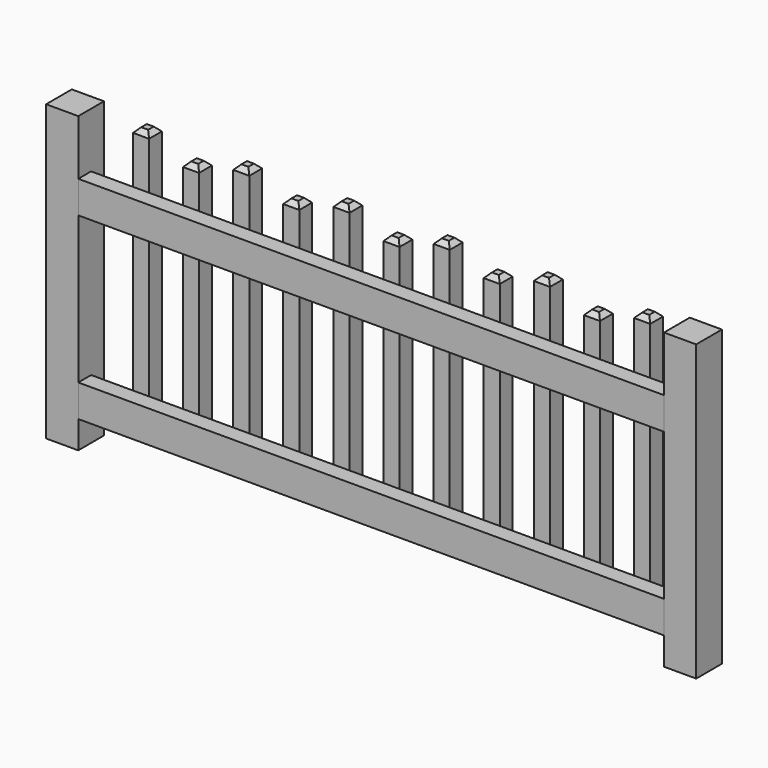
from build123d import *

# Parameters (mm, degrees)
F0_W        = 88.9
F0_H        = 88.9
F1_DEPTH    = 812.8
F4_W        = 1617.98
F4_H        = 88.9
F5_DEPTH    = 44.45
F8_W        = 44.45
F8_H        = 749.3
F9_DEPTH    = 44.45
F10_W       = 44.45
F10_H       = 711.2
F11_DEPTH   = 44.45
F12_SIZE    = 12.7
F12_2_SIZE  = 12.7
F12_3_SIZE  = 12.7
F12_4_SIZE  = 12.7
F12_5_SIZE  = 12.7
F12_6_SIZE  = 12.7
F12_7_SIZE  = 12.7
F12_8_SIZE  = 12.7
F12_9_SIZE  = 12.7
F12_10_SIZE = 12.7
F12_11_SIZE = 12.7


with BuildPart() as f1:
    # F0 (on Top) → F1 (new body)
    with BuildSketch(Plane.XY):
        with Locations((-1016.219060569, 44.45)):
            Rectangle(F0_W, F0_H)
    extrude(amount=F1_DEPTH)


with BuildPart() as f1b:
    # F0 (on Top) → F1, piece 2 (new body)
    with BuildSketch(Plane.XY):
        with Locations((690.660939431, 44.45)):
            Rectangle(F0_W, F0_H)
    extrude(amount=F1_DEPTH)


with BuildPart() as f5:
    # F4 (on offset) → F5 (new body)
    with BuildSketch(Plane.XZ):
        with Locations((-162.779060569, 615.95)):
            Rectangle(F4_W, F4_H)
    extrude(amount=-F5_DEPTH)


with BuildPart() as f5b:
    # F4 (on offset) → F5, piece 2 (new body)
    with BuildSketch(Plane.XZ):
        with Locations((-162.779060569, 120.65)):
            Rectangle(F4_W, F4_H)
    extrude(amount=-F5_DEPTH)


with BuildPart() as f9:
    # F8 (on offset) → F9 (new body)
    with BuildSketch(Plane(origin=(0, 69.85, 0), x_dir=(-1, 0, 0), z_dir=(0, 1, 0))):
        with Locations((-530.005939431, 412.75)):
            Rectangle(F8_W, F8_H)
    extrude(amount=F9_DEPTH)

    # F12
    f12_edges = [f9.edges().sort_by_distance(p)[0] for p in [
        (507.780939, 92.075, 787.4),
        (552.230939, 92.075, 787.4),
        (530.005939, 69.85, 787.4),
        (530.005939, 114.3, 787.4),
    ]]
    chamfer(f12_edges, length=F12_SIZE)


with BuildPart() as f9b:
    # F8 (on offset) → F9, piece 2 (new body)
    with BuildSketch(Plane(origin=(0, 69.85, 0), x_dir=(-1, 0, 0), z_dir=(0, 1, 0))):
        with Locations((-253.145939431, 412.75)):
            Rectangle(F8_W, F8_H)
    extrude(amount=F9_DEPTH)

    # F12#3
    f12_3_edges = [f9b.edges().sort_by_distance(p)[0] for p in [
        (230.920939, 92.075, 787.4),
        (275.370939, 92.075, 787.4),
        (253.145939, 69.85, 787.4),
        (253.145939, 114.3, 787.4),
    ]]
    chamfer(f12_3_edges, length=F12_3_SIZE)


with BuildPart() as f9c:
    # F8 (on offset) → F9, piece 3 (new body)
    with BuildSketch(Plane(origin=(0, 69.85, 0), x_dir=(-1, 0, 0), z_dir=(0, 1, 0))):
        with Locations((23.714060569, 412.75)):
            Rectangle(F8_W, F8_H)
    extrude(amount=F9_DEPTH)

    # F12#5
    f12_5_edges = [f9c.edges().sort_by_distance(p)[0] for p in [
        (-45.939061, 92.075, 787.4),
        (-1.489061, 92.075, 787.4),
        (-23.714061, 69.85, 787.4),
        (-23.714061, 114.3, 787.4),
    ]]
    chamfer(f12_5_edges, length=F12_5_SIZE)


with BuildPart() as f9d:
    # F8 (on offset) → F9, piece 4 (new body)
    with BuildSketch(Plane(origin=(0, 69.85, 0), x_dir=(-1, 0, 0), z_dir=(0, 1, 0))):
        with Locations((300.574060569, 412.75)):
            Rectangle(F8_W, F8_H)
    extrude(amount=F9_DEPTH)

    # F12#7
    f12_7_edges = [f9d.edges().sort_by_distance(p)[0] for p in [
        (-322.799061, 92.075, 787.4),
        (-278.349061, 92.075, 787.4),
        (-300.574061, 69.85, 787.4),
        (-300.574061, 114.3, 787.4),
    ]]
    chamfer(f12_7_edges, length=F12_7_SIZE)


with BuildPart() as f9e:
    # F8 (on offset) → F9, piece 5 (new body)
    with BuildSketch(Plane(origin=(0, 69.85, 0), x_dir=(-1, 0, 0), z_dir=(0, 1, 0))):
        with Locations((577.434060569, 412.75)):
            Rectangle(F8_W, F8_H)
    extrude(amount=F9_DEPTH)

    # F12#9
    f12_9_edges = [f9e.edges().sort_by_distance(p)[0] for p in [
        (-599.659061, 92.075, 787.4),
        (-555.209061, 92.075, 787.4),
        (-577.434061, 69.85, 787.4),
        (-577.434061, 114.3, 787.4),
    ]]
    chamfer(f12_9_edges, length=F12_9_SIZE)


with BuildPart() as f9f:
    # F8 (on offset) → F9, piece 6 (new body)
    with BuildSketch(Plane(origin=(0, 69.85, 0), x_dir=(-1, 0, 0), z_dir=(0, 1, 0))):
        with Locations((854.294060569, 412.75)):
            Rectangle(F8_W, F8_H)
    extrude(amount=F9_DEPTH)

    # F12#11
    f12_11_edges = [f9f.edges().sort_by_distance(p)[0] for p in [
        (-876.519061, 92.075, 787.4),
        (-832.069061, 92.075, 787.4),
        (-854.294061, 69.85, 787.4),
        (-854.294061, 114.3, 787.4),
    ]]
    chamfer(f12_11_edges, length=F12_11_SIZE)


with BuildPart() as f11:
    # F10 (on offset) → F11 (new body)
    with BuildSketch(Plane(origin=(0, 69.85, 0), x_dir=(-1, 0, 0), z_dir=(0, 1, 0))):
        with Locations((-391.321939431, 393.7)):
            Rectangle(F10_W, F10_H)
    extrude(amount=F11_DEPTH)

    # F12#2
    f12_2_edges = [f11.edges().sort_by_distance(p)[0] for p in [
        (369.096939, 92.075, 749.3),
        (413.546939, 92.075, 749.3),
        (391.321939, 69.85, 749.3),
        (391.321939, 114.3, 749.3),
    ]]
    chamfer(f12_2_edges, length=F12_2_SIZE)


with BuildPart() as f11b:
    # F10 (on offset) → F11, piece 2 (new body)
    with BuildSketch(Plane(origin=(0, 69.85, 0), x_dir=(-1, 0, 0), z_dir=(0, 1, 0))):
        with Locations((-114.461939431, 393.7)):
            Rectangle(F10_W, F10_H)
    extrude(amount=F11_DEPTH)

    # F12#4
    f12_4_edges = [f11b.edges().sort_by_distance(p)[0] for p in [
        (92.236939, 92.075, 749.3),
        (136.686939, 92.075, 749.3),
        (114.461939, 69.85, 749.3),
        (114.461939, 114.3, 749.3),
    ]]
    chamfer(f12_4_edges, length=F12_4_SIZE)


with BuildPart() as f11c:
    # F10 (on offset) → F11, piece 3 (new body)
    with BuildSketch(Plane(origin=(0, 69.85, 0), x_dir=(-1, 0, 0), z_dir=(0, 1, 0))):
        with Locations((162.398060569, 393.7)):
            Rectangle(F10_W, F10_H)
    extrude(amount=F11_DEPTH)

    # F12#6
    f12_6_edges = [f11c.edges().sort_by_distance(p)[0] for p in [
        (-184.623061, 92.075, 749.3),
        (-140.173061, 92.075, 749.3),
        (-162.398061, 69.85, 749.3),
        (-162.398061, 114.3, 749.3),
    ]]
    chamfer(f12_6_edges, length=F12_6_SIZE)


with BuildPart() as f11d:
    # F10 (on offset) → F11, piece 4 (new body)
    with BuildSketch(Plane(origin=(0, 69.85, 0), x_dir=(-1, 0, 0), z_dir=(0, 1, 0))):
        with Locations((439.258060569, 393.7)):
            Rectangle(F10_W, F10_H)
    extrude(amount=F11_DEPTH)

    # F12#8
    f12_8_edges = [f11d.edges().sort_by_distance(p)[0] for p in [
        (-461.483061, 92.075, 749.3),
        (-417.033061, 92.075, 749.3),
        (-439.258061, 69.85, 749.3),
        (-439.258061, 114.3, 749.3),
    ]]
    chamfer(f12_8_edges, length=F12_8_SIZE)


with BuildPart() as f11e:
    # F10 (on offset) → F11, piece 5 (new body)
    with BuildSketch(Plane(origin=(0, 69.85, 0), x_dir=(-1, 0, 0), z_dir=(0, 1, 0))):
        with Locations((716.118060569, 393.7)):
            Rectangle(F10_W, F10_H)
    extrude(amount=F11_DEPTH)

    # F12#10
    f12_10_edges = [f11e.edges().sort_by_distance(p)[0] for p in [
        (-738.343061, 92.075, 749.3),
        (-693.893061, 92.075, 749.3),
        (-716.118061, 69.85, 749.3),
        (-716.118061, 114.3, 749.3),
    ]]
    chamfer(f12_10_edges, length=F12_10_SIZE)


solid = Compound([f1.part, f1b.part, f5.part, f5b.part, f9.part, f9b.part, f9c.part, f9d.part, f9e.part, f9f.part, f11.part, f11b.part, f11c.part, f11d.part, f11e.part])
